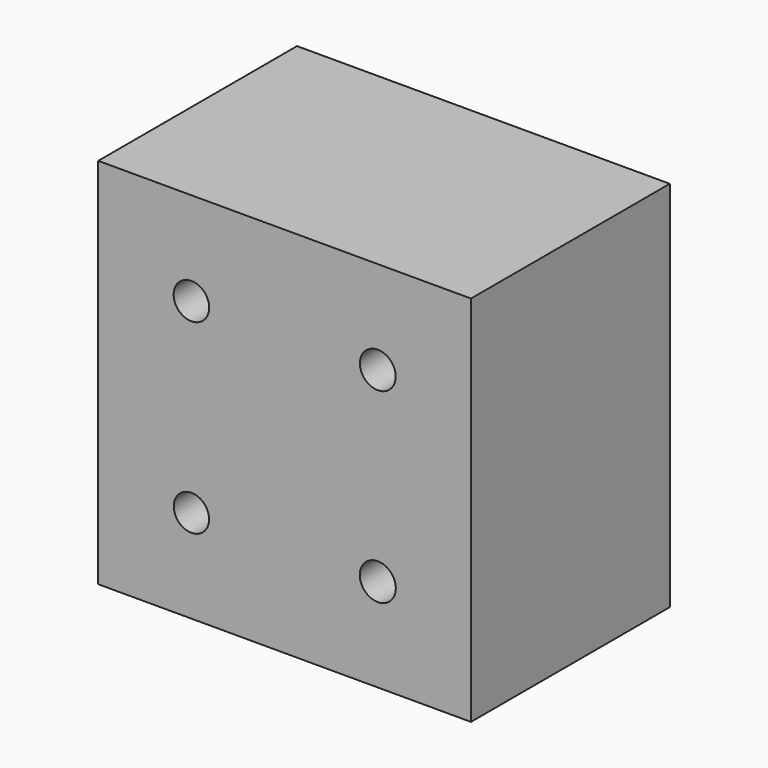
from build123d import *

# Parameters (mm, degrees)
F0_W     = 38.1
F0_H     = 38.1
F2_DEPTH = 25.4
F3_D     = 3.6322
F4_D     = 3.6576
F5_D     = 3.6068
F6_D     = 3.683


with BuildPart() as f2:
    # F0 (on Front) → F2 (new body)
    with BuildSketch(Plane.XZ):
        with Locations((19.05, -19.05)):
            Rectangle(F0_W, F0_H)
    extrude(amount=F2_DEPTH)

    # F3 (through all)
    with Locations(Plane(origin=(0, 0, 0), x_dir=(1, 0, 0), z_dir=(0, 1, 0))):
        with Locations((9.525, 9.525)):
            Hole(F3_D / 2)

    # F4 (through all)
    with Locations(Plane(origin=(0, 0, 0), x_dir=(1, 0, 0), z_dir=(0, 1, 0))):
        with Locations((28.575, 9.525)):
            Hole(F4_D / 2)

    # F5 (through all)
    with Locations(Plane(origin=(0, 0, 0), x_dir=(1, 0, 0), z_dir=(0, 1, 0))):
        with Locations((9.525, 28.575)):
            Hole(F5_D / 2)

    # F6 (through all)
    with Locations(Plane(origin=(0, 0, 0), x_dir=(1, 0, 0), z_dir=(0, 1, 0))):
        with Locations((28.575, 28.575)):
            Hole(F6_D / 2)


solid = f2.part
